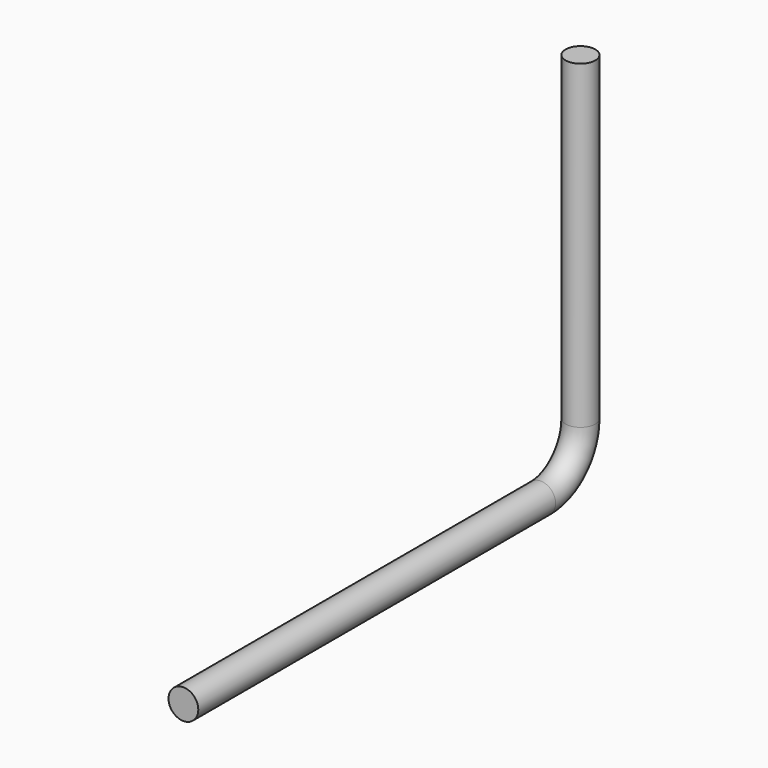
from build123d import *

# Parameters (mm, degrees)
F0_R = 1.905


with BuildPart() as f2:
    # F2: sweep along a path in F1
    with BuildLine(Plane.YZ) as f2_path:
        Line((0, 0), (57.15, 0))
        ThreePointArc((57.15, 0), (61.640128, 1.859872), (63.5, 6.35))
        Line((63.5, 6.35), (63.5, 47.320865))
    # F0 (on Front) → F2 (sweep)
    with BuildSketch(Plane.XZ):
        Circle(F0_R)
    sweep(path=f2_path.line)


solid = f2.part
